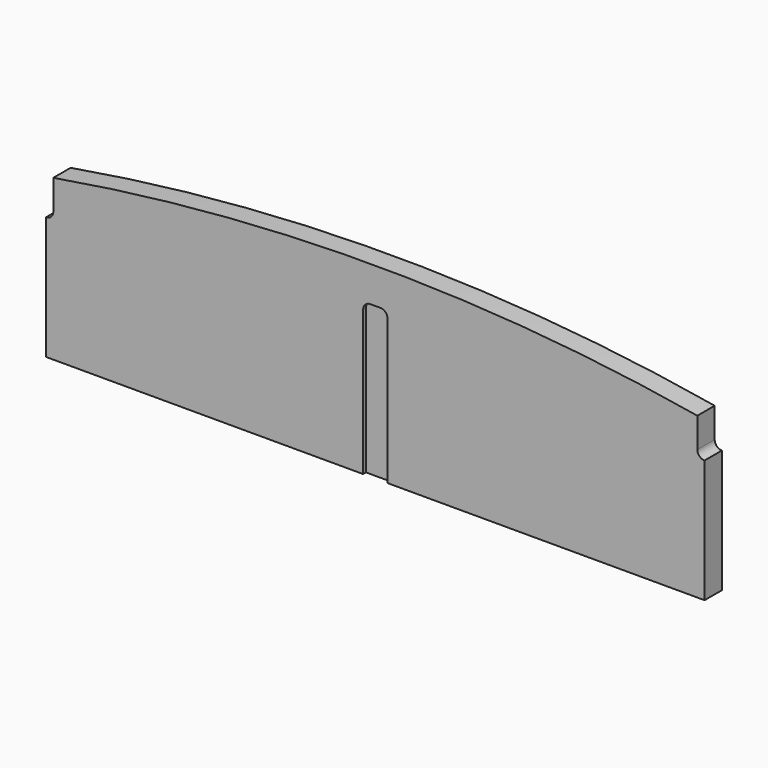
from build123d import *

# Parameters (mm, degrees)
F1_DEPTH = 9.50849
F3_DEPTH = 3.175
F5_DEPTH = 3.175


with BuildPart() as f1:
    # F0 (on Front) → F1 (new body, symmetric)
    with BuildSketch(Plane.XZ):
        with BuildLine():
            Line((-292.100635, -70.246875), (285.750635, -70.246875))
            Line((285.750635, -70.246875), (285.750635, 37.703125))
            ThreePointArc((285.750635, 37.703125), (281.260507, 39.562997), (279.400635, 44.053125))
            Line((279.400635, 44.053125), (279.400635, 70.246875))
            ThreePointArc((279.400635, 70.246875), (-3.175, 94.32664), (-285.750635, 70.246875))
            Line((-285.750635, 70.246875), (-285.750635, 44.053125))
            ThreePointArc((-285.750635, 44.053125), (-287.610507, 39.562997), (-292.100635, 37.703125))
            Line((-292.100635, 37.703125), (-292.100635, -70.246875))
        make_face()
    extrude(amount=F1_DEPTH, both=True)

    # F2 (on face) → F3 (cut)
    with BuildSketch(Plane.XZ.offset(9.50849)):
        with BuildLine():
            Line((1.190625, 63.103125), (-7.540625, 63.103125))
            ThreePointArc((-7.540625, 63.103125), (-12.030753, 61.243253), (-13.890625, 56.753125))
            Line((-13.890625, 56.753125), (-13.890625, -70.246875))
            Line((-13.890625, -70.246875), (7.540625, -70.246875))
            Line((7.540625, -70.246875), (7.540625, 56.753125))
            ThreePointArc((7.540625, 56.753125), (5.680753, 61.243253), (1.190625, 63.103125))
        make_face()
    extrude(amount=-F3_DEPTH, mode=Mode.SUBTRACT)

    # F4 (on face) → F5 (cut)
    with BuildSketch(Plane(origin=(0, 9.50849, 0), x_dir=(-1, 0, 0), z_dir=(0, 1, 0))):
        with BuildLine():
            Line((-7.540625, 56.753125), (-7.540625, -70.246875))
            Line((-7.540625, -70.246875), (13.890625, -70.246875))
            Line((13.890625, -70.246875), (13.890625, 56.753125))
            ThreePointArc((13.890625, 56.753125), (12.030753, 61.243253), (7.540625, 63.103125))
            Line((7.540625, 63.103125), (-1.190625, 63.103125))
            ThreePointArc((-1.190625, 63.103125), (-5.680753, 61.243253), (-7.540625, 56.753125))
        make_face()
    extrude(amount=-F5_DEPTH, mode=Mode.SUBTRACT)


solid = f1.part
